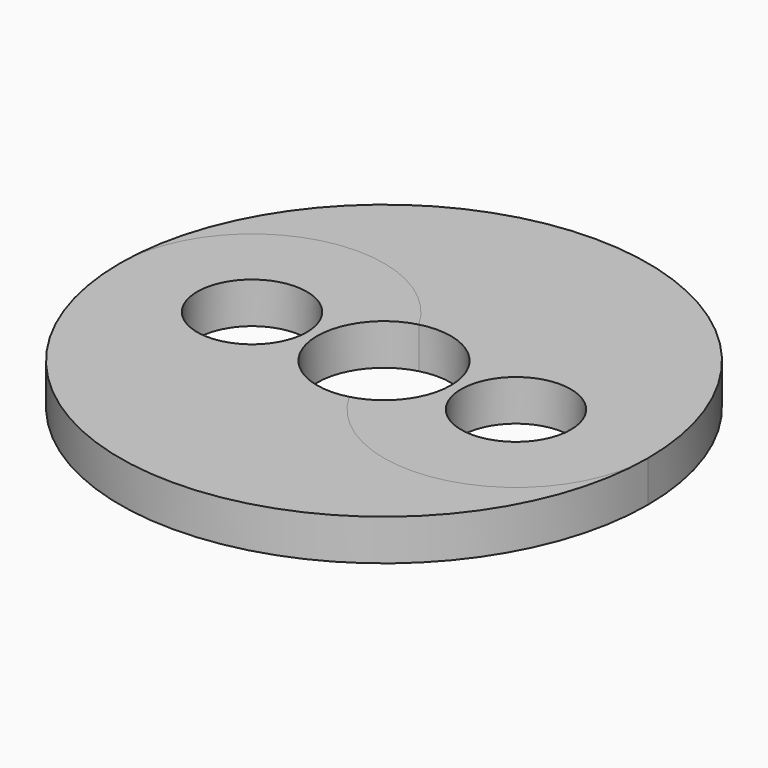
from build123d import *

# Parameters (mm, degrees)
F0_R     = 9.35
F1_DEPTH = 7
F2_DEPTH = 7


with BuildPart() as f1:
    # F0 (on Top) → F1 (new body)
    with BuildSketch(Plane.XY):
        with BuildLine():
            ThreePointArc((-45, 0), (0, -45), (45, 0))
            ThreePointArc((45, 0), (28.2, -21.766029), (2.888, -11.028121))
            ThreePointArc((2.888, -11.028121), (-11.028121, -2.888), (-2.888, 11.028121))
            ThreePointArc((-2.888, 11.028121), (-28.2, 21.766029), (-45, 0))
        make_face()
        with Locations((-22.5, 0)):
            Circle(F0_R, mode=Mode.SUBTRACT)
    extrude(amount=F1_DEPTH)


with BuildPart() as f2:
    # F0 (on Top) → F2 (new body)
    with BuildSketch(Plane.XY):
        with BuildLine():
            ThreePointArc((2.888, -11.028121), (28.2, -21.766029), (45, 0))
            ThreePointArc((45, 0), (0, 45), (-45, 0))
            ThreePointArc((-45, 0), (-28.2, 21.766029), (-2.888, 11.028121))
            ThreePointArc((-2.888, 11.028121), (6.965515, 9.0245), (11.4, 0))
            ThreePointArc((11.4, 0), (9.0245, -6.965515), (2.888, -11.028121))
        make_face()
        with Locations((22.5, 0)):
            Circle(F0_R, mode=Mode.SUBTRACT)
    extrude(amount=F2_DEPTH)


solid = Compound([f1.part, f2.part])
